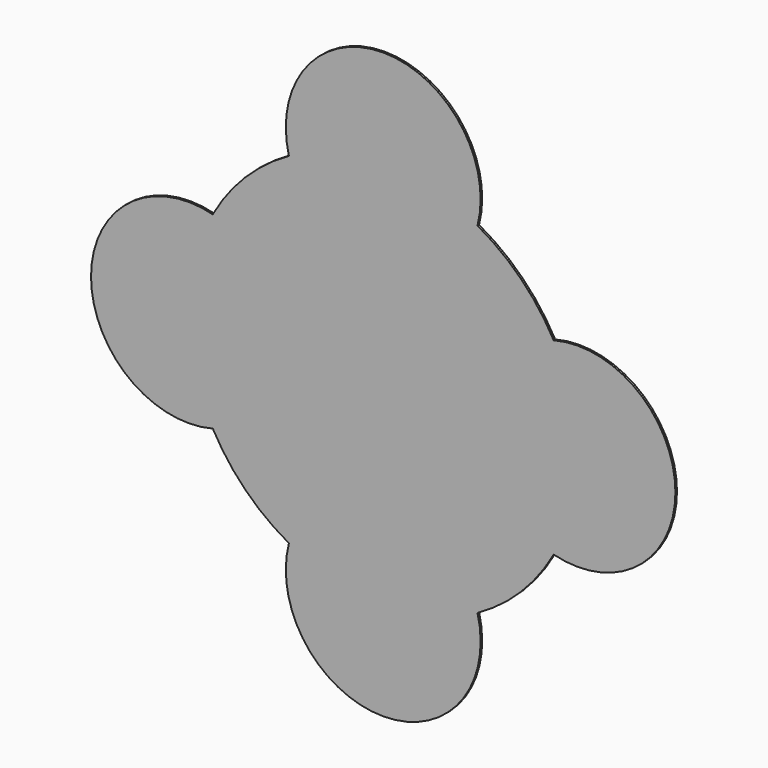
from build123d import *

# Parameters (mm, degrees)
F0_R     = 100
F1_DEPTH = 1
F2_R     = 50
F3_DEPTH = 1


with BuildPart() as f1:
    # F0 (on Front) → F1 (new body)
    with BuildSketch(Plane.XZ):
        Circle(F0_R)
    extrude(amount=F1_DEPTH)

    # F2 (on face) → F3 (join)
    with BuildSketch(Plane.XZ.offset(1)):
        with Locations((-100, 0)):
            Circle(F2_R)
        with Locations((0, 100)):
            Circle(F2_R)
        with Locations((100, 0)):
            Circle(F2_R)
        with Locations((0, -100)):
            Circle(F2_R)
    extrude(amount=-F3_DEPTH)


solid = f1.part
